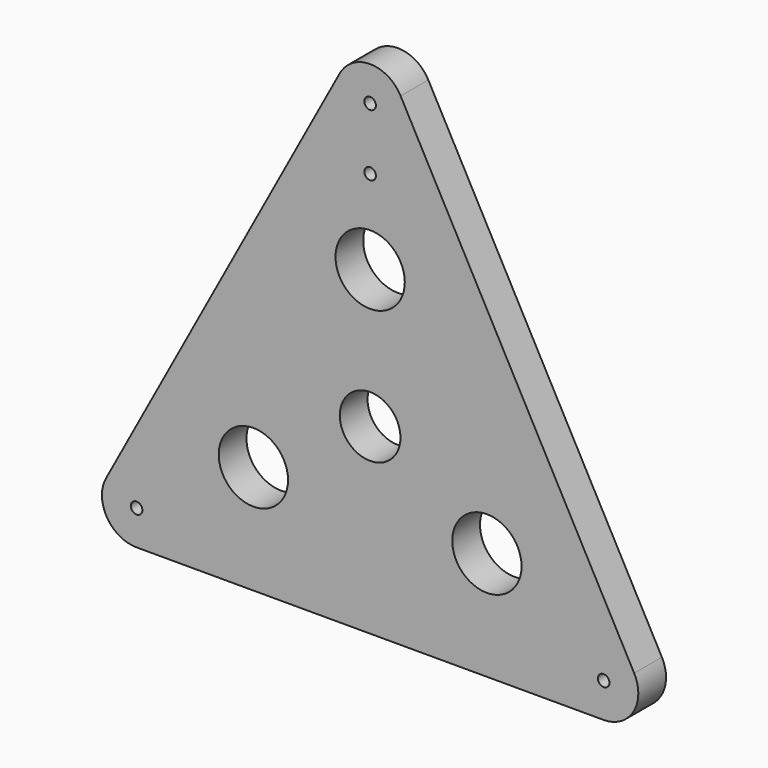
from build123d import *

# Parameters (mm, degrees)
F0_R     = 1.5875
F0_R_2   = 9.525
F0_R_3   = 8.334375
F1_DEPTH = 9.525


with BuildPart() as f1:
    # F0 (on Front) → F1 (new body)
    with BuildSketch(Plane.XZ):
        with BuildLine():
            Line((136.77666, 4.528457), (72.57816, 123.324257))
            ThreePointArc((72.57816, 123.324257), (64.1985, 128.3208), (55.81884, 123.324257))
            Line((55.81884, 123.324257), (-8.37966, 4.528457))
            ThreePointArc((-8.37966, 4.528457), (-8.18105, -4.878118), (0, -9.525))
            Line((0, -9.525), (128.397, -9.525))
            ThreePointArc((128.397, -9.525), (136.57805, -4.878118), (136.77666, 4.528457))
        make_face()
        Circle(F0_R, mode=Mode.SUBTRACT)
        with Locations((32.09925, 20.3073)):
            Circle(F0_R_2, mode=Mode.SUBTRACT)
        with Locations((64.1985, 40.6146)):
            Circle(F0_R_3, mode=Mode.SUBTRACT)
        with Locations((96.29775, 20.3073)):
            Circle(F0_R_2, mode=Mode.SUBTRACT)
        with Locations((128.397, 0)):
            Circle(F0_R, mode=Mode.SUBTRACT)
        with Locations((64.1985, 78.598126)):
            Circle(F0_R_2, mode=Mode.SUBTRACT)
        with Locations((64.1985, 101.779327)):
            Circle(F0_R, mode=Mode.SUBTRACT)
        with Locations((64.1985, 118.7958)):
            Circle(F0_R, mode=Mode.SUBTRACT)
    extrude(amount=F1_DEPTH)


solid = f1.part
